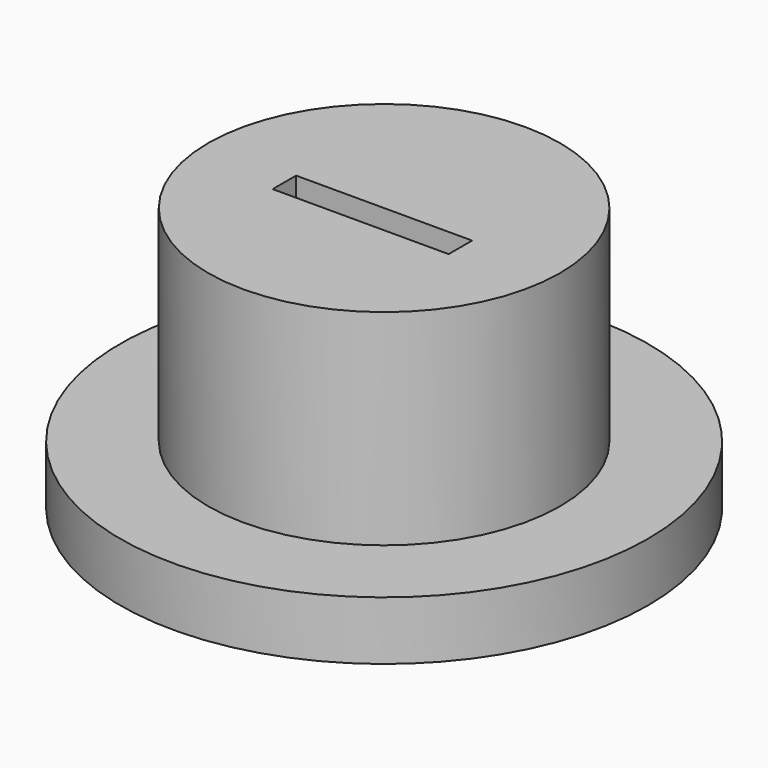
from build123d import *

# Parameters (mm, degrees)
F0_R     = 4.5
F1_DEPTH = 1
F2_R     = 3
F3_DEPTH = 3.5
F4_W     = 3
F4_H     = 0.75
F5_DEPTH = 2
F6_W     = 3
F6_H     = 0.25
F7_DEPTH = 1.2


with BuildPart() as f1:
    # F0 (on Top) → F1 (new body)
    with BuildSketch(Plane.XY):
        Circle(F0_R)
    extrude(amount=F1_DEPTH)

    # F2 (on face) → F3 (join)
    with BuildSketch(Plane.XY.offset(1)):
        Circle(F2_R)
    extrude(amount=F3_DEPTH)

    # F4 (on face) → F5 (cut)
    with BuildSketch(Plane.XY.offset(4.5)):
        with Locations((0, -0.125)):
            Rectangle(F4_W, F4_H)
    extrude(amount=-F5_DEPTH, mode=Mode.SUBTRACT)

    # F6 (on face) → F7 (join)
    with BuildSketch(Plane.XY.offset(4.5)):
        with Locations((0, 0.125)):
            Rectangle(F6_W, F6_H)
    extrude(amount=-F7_DEPTH)


solid = f1.part
